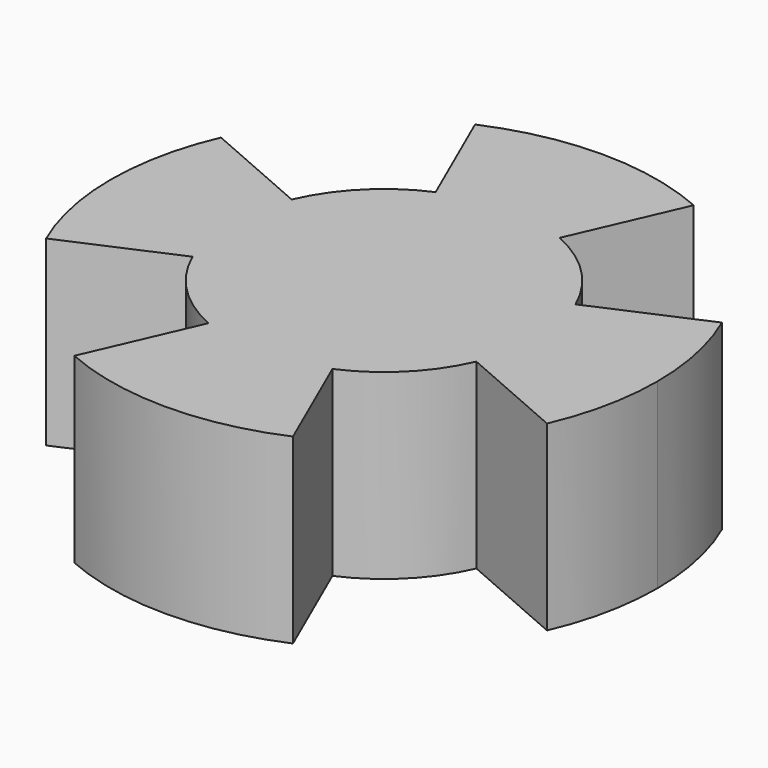
from build123d import *

# Parameters (mm, degrees)
F1_DEPTH = 5


with BuildPart() as f1:
    # F0 (on Top) → F1 (new body)
    with BuildSketch(Plane.XY):
        with BuildLine():
            Line((1.7, 3.895189), (3, 6.873864))
            ThreePointArc((3, 6.873864), (0, 7.5), (-3, 6.873864))
            Line((-3, 6.873864), (-1.7, 3.895189))
            ThreePointArc((-1.7, 3.895189), (0, 4.25), (1.7, 3.895189))
        make_face()
        with BuildLine():
            ThreePointArc((6.873864, -3), (7.341797, -1.532322), (7.5, 0))
            ThreePointArc((7.5, 0), (7.341797, 1.532322), (6.873864, 3))
            Line((6.873864, 3), (3.895189, 1.7))
            ThreePointArc((3.895189, 1.7), (4.160352, 0.868316), (4.25, 0))
            ThreePointArc((4.25, 0), (4.160352, -0.868316), (3.895189, -1.7))
            Line((3.895189, -1.7), (6.873864, -3))
        make_face()
        with BuildLine():
            ThreePointArc((-3, -6.873864), (0, -7.5), (3, -6.873864))
            Line((3, -6.873864), (1.7, -3.895189))
            ThreePointArc((1.7, -3.895189), (0, -4.25), (-1.7, -3.895189))
            Line((-1.7, -3.895189), (-3, -6.873864))
        make_face()
        with BuildLine():
            Line((-3.895189, 1.7), (-6.873864, 3))
            ThreePointArc((-6.873864, 3), (-7.5, 0), (-6.873864, -3))
            Line((-6.873864, -3), (-3.895189, -1.7))
            ThreePointArc((-3.895189, -1.7), (-4.25, 0), (-3.895189, 1.7))
        make_face()
        with BuildLine():
            ThreePointArc((4.25, 0), (4.160352, 0.868316), (3.895189, 1.7))
            ThreePointArc((3.895189, 1.7), (3.005204, 3.005204), (1.7, 3.895189))
            ThreePointArc((1.7, 3.895189), (0, 4.25), (-1.7, 3.895189))
            ThreePointArc((-1.7, 3.895189), (-3.005204, 3.005204), (-3.895189, 1.7))
            ThreePointArc((-3.895189, 1.7), (-4.25, 0), (-3.895189, -1.7))
            ThreePointArc((-3.895189, -1.7), (-3.005204, -3.005204), (-1.7, -3.895189))
            ThreePointArc((-1.7, -3.895189), (0, -4.25), (1.7, -3.895189))
            ThreePointArc((1.7, -3.895189), (3.005204, -3.005204), (3.895189, -1.7))
            ThreePointArc((3.895189, -1.7), (4.160352, -0.868316), (4.25, 0))
        make_face()
    extrude(amount=F1_DEPTH)


solid = f1.part
